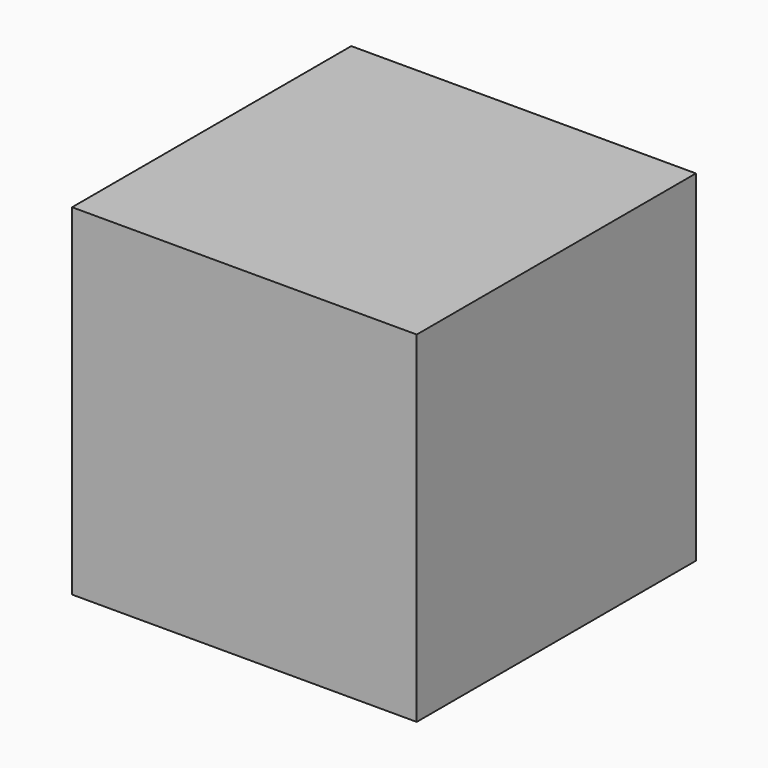
from build123d import *

# Parameters (mm, degrees)
F0_W     = 19.97
F0_H     = 19.76
F1_DEPTH = 20.22
F3_DEPTH = 18.76
F2_W     = 14.97
F2_H     = 1.75
F4_DEPTH = 17


with BuildPart() as f1:
    # F0 (on Front) → F1 (new body)
    with BuildSketch(Plane.XZ):
        Rectangle(F0_W, F0_H)
    extrude(amount=F1_DEPTH)

    # F2 (on face) → F3 (cut)
    with BuildSketch(Plane(origin=(0, 0, -9.88), x_dir=(1, 0, 0), z_dir=(0, 0, -1))):
        Polygon((8.985, 1.75), (8.985, 19.22), (-8.985, 19.22), (-8.985, 1.75), (-7.485, 1.75), (7.485, 1.75), align=None)
        Polygon((8.985, 1.75), (8.985, 19.22), (-8.985, 19.22), (-8.985, 1.75), (-7.485, 1.75), (7.485, 1.75), align=None)
    extrude(amount=-F3_DEPTH, mode=Mode.SUBTRACT)

    # F2 (on face) → F4 (cut)
    with BuildSketch(Plane(origin=(0, 0, -9.88), x_dir=(1, 0, 0), z_dir=(0, 0, -1))):
        with Locations((0, 0.875)):
            Rectangle(F2_W, F2_H)
        Polygon((8.985, 1.75), (8.985, 19.22), (-8.985, 19.22), (-8.985, 1.75), (-7.485, 1.75), (7.485, 1.75), align=None)
    extrude(amount=-F4_DEPTH, mode=Mode.SUBTRACT)


solid = f1.part
